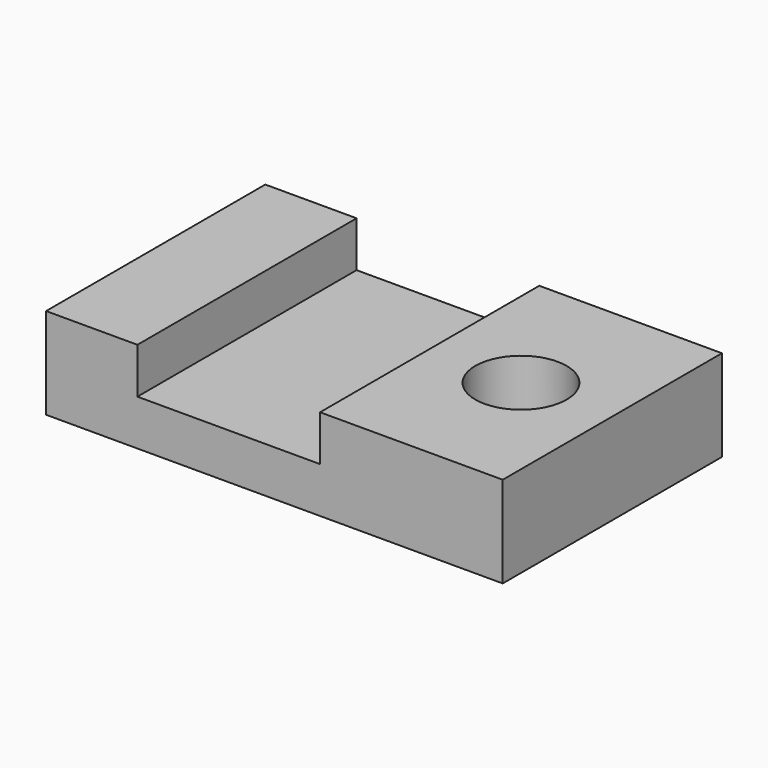
from build123d import *

# Parameters (mm, degrees)
F1_DEPTH = 38.1
F3_D     = 25.4


with BuildPart() as f1:
    # F0 (on Front) → F1 (new body, symmetric)
    with BuildSketch(Plane.XZ):
        Polygon((-64.2784893215, 25.4), (-64.2784893215, 0), (62.7215106785, 0), (62.7215106785, 25.4), (11.9215106785, 25.4), (11.9215106785, 12.7), (-38.8784893215, 12.7), (-38.8784893215, 25.4), align=None)
    extrude(amount=F1_DEPTH, both=True)

    # F3 (through all)
    with Locations(Plane.XY.offset(25.4)):
        with Locations((37.3215106785, 0)):
            Hole(F3_D / 2)


solid = f1.part
